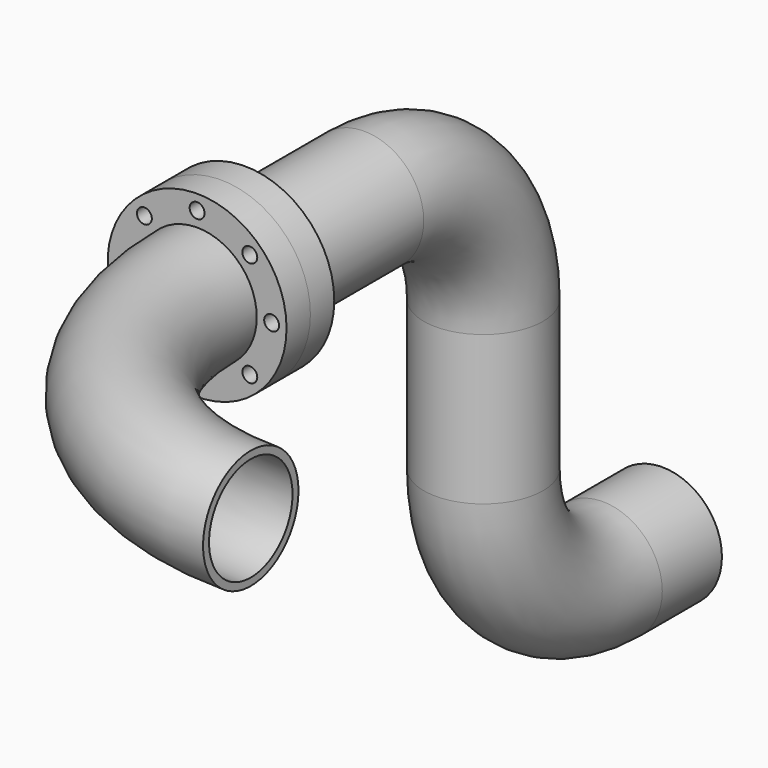
from build123d import *

# Parameters (mm, degrees)
F0_R        = 60
F0_R_2      = 5
F0_R_3      = 35
F1_DEPTH    = 20
F2_R        = 40
F2_R_2      = 35
F1_FACE_R   = 60
F1_FACE_R_2 = 5
F1_FACE_R_3 = 35
F5_DEPTH    = 20
F6_R        = 40
F6_R_2      = 35
F7_ANGLE    = -90


with BuildPart() as f1:
    # F0 (on Front) → F1 (new body)
    with BuildSketch(Plane.XZ):
        Circle(F0_R)
        with Locations((-35.355339, -35.355339)):
            Circle(F0_R_2, mode=Mode.SUBTRACT)
        with Locations((0, -50)):
            Circle(F0_R_2, mode=Mode.SUBTRACT)
        with Locations((35.355339, -35.355339)):
            Circle(F0_R_2, mode=Mode.SUBTRACT)
        with Locations((-50, 0)):
            Circle(F0_R_2, mode=Mode.SUBTRACT)
        with Locations((-35.355339, 35.355339)):
            Circle(F0_R_2, mode=Mode.SUBTRACT)
        Circle(F0_R_3, mode=Mode.SUBTRACT)
        with Locations((50, 0)):
            Circle(F0_R_2, mode=Mode.SUBTRACT)
        with Locations((0, 50)):
            Circle(F0_R_2, mode=Mode.SUBTRACT)
        with Locations((35.355339, 35.355339)):
            Circle(F0_R_2, mode=Mode.SUBTRACT)
    extrude(amount=F1_DEPTH)

    # F4: sweep along a path in F3
    with BuildLine(Plane.YZ) as f4_path:
        Line((0, 0), (100, 0))
        ThreePointArc((100, 0), (170.710678, -29.289322), (200, -100))
        Line((200, -100), (200, -200))
        ThreePointArc((200, -200), (229.289322, -270.710678), (300, -300))
        Line((300, -300), (350, -300))
    # F2 (on Front) → F4 (sweep)
    with BuildSketch(Plane.XZ):
        Circle(F2_R)
        Circle(F2_R_2, mode=Mode.SUBTRACT)
    sweep(path=f4_path.line)


with BuildPart() as f5:
    # F1_face (on face) → F5 (new body)
    with BuildSketch(Plane.XZ.offset(20)):
        Circle(F1_FACE_R)
        with Locations((-35.355339, -35.355339)):
            Circle(F1_FACE_R_2, mode=Mode.SUBTRACT)
        with Locations((0, -50)):
            Circle(F1_FACE_R_2, mode=Mode.SUBTRACT)
        with Locations((35.355339, -35.355339)):
            Circle(F1_FACE_R_2, mode=Mode.SUBTRACT)
        with Locations((-50, 0)):
            Circle(F1_FACE_R_2, mode=Mode.SUBTRACT)
        with Locations((-35.355339, 35.355339)):
            Circle(F1_FACE_R_2, mode=Mode.SUBTRACT)
        Circle(F1_FACE_R_3, mode=Mode.SUBTRACT)
        with Locations((50, 0)):
            Circle(F1_FACE_R_2, mode=Mode.SUBTRACT)
        with Locations((0, 50)):
            Circle(F1_FACE_R_2, mode=Mode.SUBTRACT)
        with Locations((35.355339, 35.355339)):
            Circle(F1_FACE_R_2, mode=Mode.SUBTRACT)
    extrude(amount=F5_DEPTH)

    # F6 (on face) → F7 (revolve)
    with BuildSketch(Plane.XZ.offset(40)):
        Circle(F6_R)
        Circle(F6_R_2, mode=Mode.SUBTRACT)
    revolve(axis=Axis((180, -40, 1.51933), (0, 0, -1)), revolution_arc=F7_ANGLE)


solid = Compound([f1.part, f5.part])
